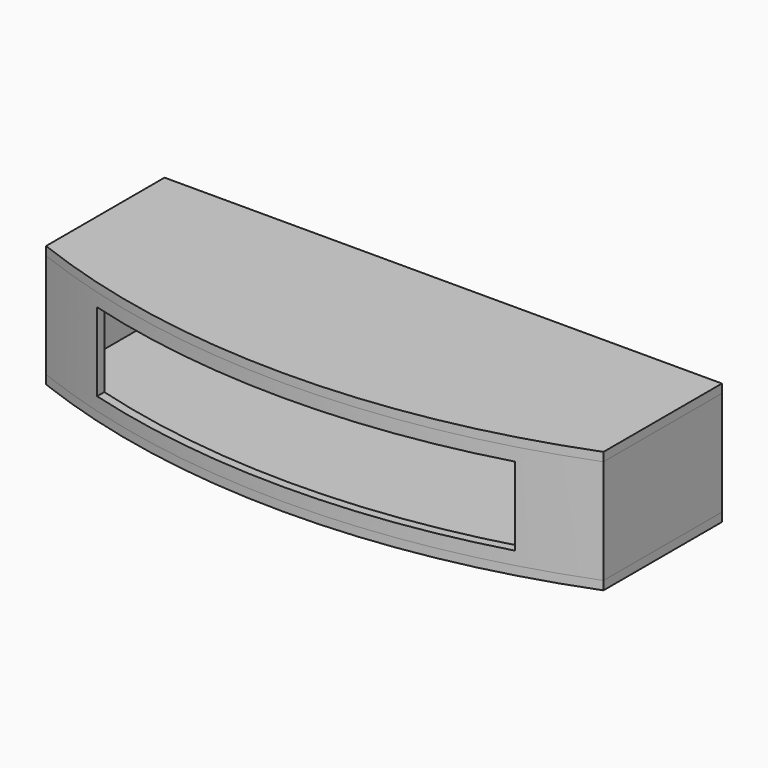
from build123d import *

# Parameters (mm, degrees)
F1_DEPTH  = 6.35
F3_DEPTH  = 76.2
F6_W      = 107.95
F6_H      = 76.2
F7_DEPTH  = 6.35
F10_W     = 304.8
F10_H     = 57.15
F11_DEPTH = 146.051


with BuildPart() as f1:
    # F0 (on Top) → F1 (new body)
    with BuildSketch(Plane.XY):
        with BuildLine():
            Line((203.2, -53.975), (203.2, 53.975))
            Line((203.2, 53.975), (-203.2, 53.975))
            Line((-203.2, 53.975), (-203.2, -53.975))
            ThreePointArc((-203.2, -53.975), (0, -92.075), (203.2, -53.975))
        make_face()
    extrude(amount=F1_DEPTH)


with BuildPart() as f3:
    # F2 (on face) → F3 (new body)
    with BuildSketch(Plane(origin=(0, 0, 0), x_dir=(1, 0, 0), z_dir=(0, 0, -1))):
        with BuildLine():
            ThreePointArc((-184.9511369021, 53.975), (0, 85.7250019908), (184.9511369021, 53.975))
            Line((184.9511369021, 53.975), (203.2, 53.975))
            ThreePointArc((203.2, 53.975), (0, 92.075), (-203.2, 53.975))
            Line((-203.2, 53.975), (-184.9511369021, 53.975))
        make_face()
    extrude(amount=F3_DEPTH)

    # F10 (on offset) → F11 (cut, through all)
    with BuildSketch(Plane.XZ.offset(92.075)):
        with Locations((0, -38.1)):
            Rectangle(F10_W, F10_H)
    extrude(amount=-F11_DEPTH, mode=Mode.SUBTRACT)


with BuildPart() as f5_1:
    # F5: instance of F1
    add(f1.part.mirror(Plane(origin=(0, -13.2670479087, -38.1), x_dir=(1, 0, 0), z_dir=(0, 0, -1))))


with BuildPart() as f7:
    # F6 (on face) → F7 (new body)
    with BuildSketch(Plane(origin=(-203.2, 0, 0), x_dir=(0, -1, 0), z_dir=(-1, 0, 0))):
        with Locations((0, -38.1)):
            Rectangle(F6_W, F6_H)
    extrude(amount=-F7_DEPTH)


with BuildPart() as f8_1:
    # F8: instance of F7
    add(f7.part.mirror(Plane.YZ))


solid = Compound([f1.part, f3.part, f5_1.part, f7.part, f8_1.part])
